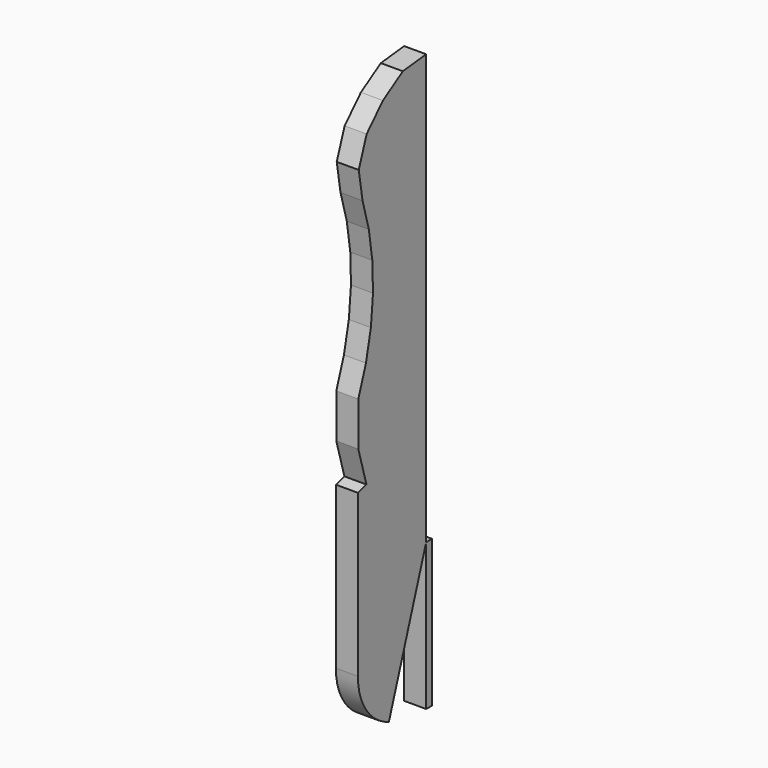
from build123d import *

# Parameters (mm, degrees)
F0_W     = 12.7
F0_H     = 254
F1_DEPTH = 38.1
F2_DEPTH = 25.4


with BuildPart() as f1:
    # F0 (on Right) → F1 (new body)
    with BuildSketch(Plane.YZ):
        with BuildLine():
            Line((-93.197607, 469.818558), (-143.712486, 464.443894))
            Line((-143.712486, 464.443894), (-186.681392, 437.345682))
            Line((-186.681392, 437.345682), (-221.854293, 400.6918))
            Line((-221.854293, 400.6918), (-238.990671, 352.869373))
            Line((-238.990671, 352.869373), (-230.772505, 302.738527))
            ThreePointArc((-230.772505, 302.738527), (-223.272235, 278.459161), (-217.242212, 253.773528))
            ThreePointArc((-217.242212, 253.773528), (-212.704163, 228.770572), (-209.674439, 203.540383))
            ThreePointArc((-209.674439, 203.540383), (-208.163957, 178.173867), (-208.17816, 152.762424))
            ThreePointArc((-208.17816, 152.762424), (-209.716995, 127.397612), (-212.774918, 102.170826))
            ThreePointArc((-212.774918, 102.170826), (-217.340913, 77.172958), (-223.398525, 52.494081))
            ThreePointArc((-223.398525, 52.494081), (-230.92593, 28.223114), (-239.896005, 4.447508))
            Line((-239.896005, 4.447508), (-239.896005, -71.752492))
            Line((-239.896005, -71.752492), (-222.351757, -132.780759))
            Line((-222.351757, -132.780759), (-240.660237, -138.044033))
            Line((-240.660237, -138.044033), (-240.660237, -417.444033))
            ThreePointArc((-240.660237, -417.444033), (-222.593558, -476.366823), (-173.791986, -514.005986))
            Line((-173.791986, -514.005986), (-93.197607, -273.131442))
            Line((-93.197607, -273.131442), (-93.197607, 469.818558))
        make_face()
        with Locations((-86.847607, -400.131442)):
            Rectangle(F0_W, F0_H)
        with BuildLine():
            ThreePointArc((-217.242212, 253.773528), (-223.272235, 278.459161), (-230.772505, 302.738527))
            Line((-230.772505, 302.738527), (-217.242212, 253.773528))
        make_face()
        with BuildLine():
            ThreePointArc((-209.674439, 203.540383), (-212.704163, 228.770572), (-217.242212, 253.773528))
            Line((-217.242212, 253.773528), (-209.674439, 203.540383))
        make_face()
        with BuildLine():
            ThreePointArc((-208.17816, 152.762424), (-208.163957, 178.173867), (-209.674439, 203.540383))
            Line((-209.674439, 203.540383), (-208.17816, 152.762424))
        make_face()
        with BuildLine():
            ThreePointArc((-212.774918, 102.170826), (-209.716995, 127.397612), (-208.17816, 152.762424))
            Line((-208.17816, 152.762424), (-212.774918, 102.170826))
        make_face()
        with BuildLine():
            ThreePointArc((-223.398525, 52.494081), (-217.340913, 77.172958), (-212.774918, 102.170826))
            Line((-212.774918, 102.170826), (-223.398525, 52.494081))
        make_face()
        with BuildLine():
            Line((-223.398525, 52.494081), (-239.896005, 4.447508))
            ThreePointArc((-239.896005, 4.447508), (-230.92593, 28.223114), (-223.398525, 52.494081))
        make_face()
    extrude(amount=F1_DEPTH)

    # F0 (on Right) → F2 (join)
    with BuildSketch(Plane.YZ):
        with Locations((-86.847607, -400.131442)):
            Rectangle(F0_W, F0_H)
    extrude(amount=F2_DEPTH)


solid = f1.part
